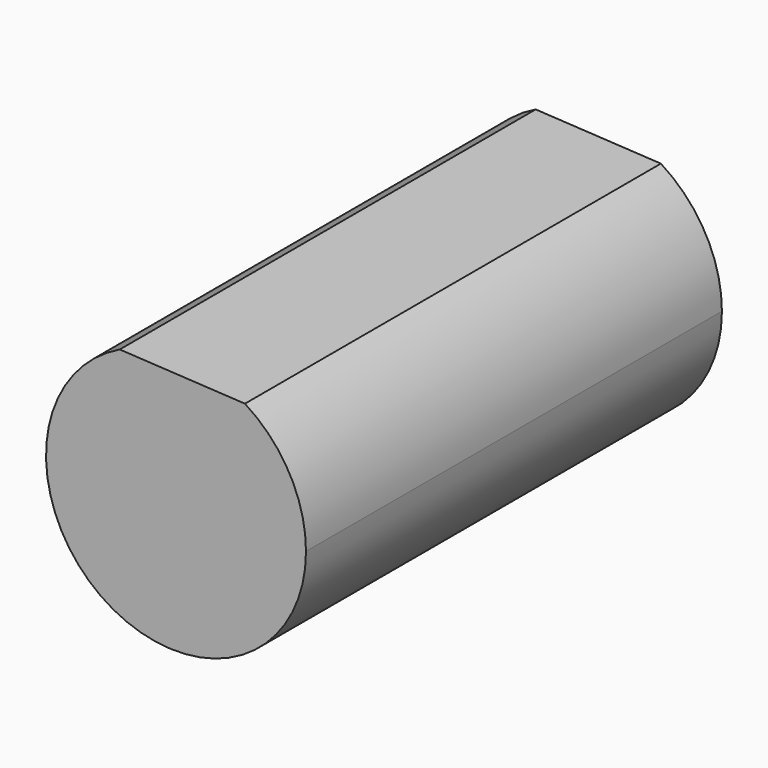
from build123d import *

# Parameters (mm, degrees)
F1_DEPTH = 100
F2_DEPTH = 100


with BuildPart() as f1:
    # F0 (on Front) → F1 (new body)
    with BuildSketch(Plane.XZ):
        with BuildLine():
            ThreePointArc((-10.8199622823, 22.5372672747), (-13.3135446622, -21.1600928289), (25, 0))
            ThreePointArc((25, 0), (21.869250686, 12.113458401), (13.2611300454, 21.1929806756))
            Line((13.2611300454, 21.1929806756), (0, 0))
            Line((0, 0), (-10.8199622823, 22.5372672747))
        make_face()
        with BuildLine():
            Line((-10.8199622823, 22.5372672747), (13.2611300454, 21.1929806756))
            ThreePointArc((13.2611300454, 21.1929806756), (1.3934136597, 24.961137762), (-10.8199622823, 22.5372672747))
        make_face()
        Polygon((0, 0), (13.2611300454, 21.1929806756), (-10.8199622823, 22.5372672747), align=None)
    extrude(amount=F1_DEPTH)

    # F0 (on Front) → F2 (cut)
    with BuildSketch(Plane.XZ):
        with BuildLine():
            Line((-10.8199622823, 22.5372672747), (13.2611300454, 21.1929806756))
            ThreePointArc((13.2611300454, 21.1929806756), (1.3934136597, 24.961137762), (-10.8199622823, 22.5372672747))
        make_face()
    extrude(amount=F2_DEPTH, mode=Mode.SUBTRACT)


solid = f1.part
